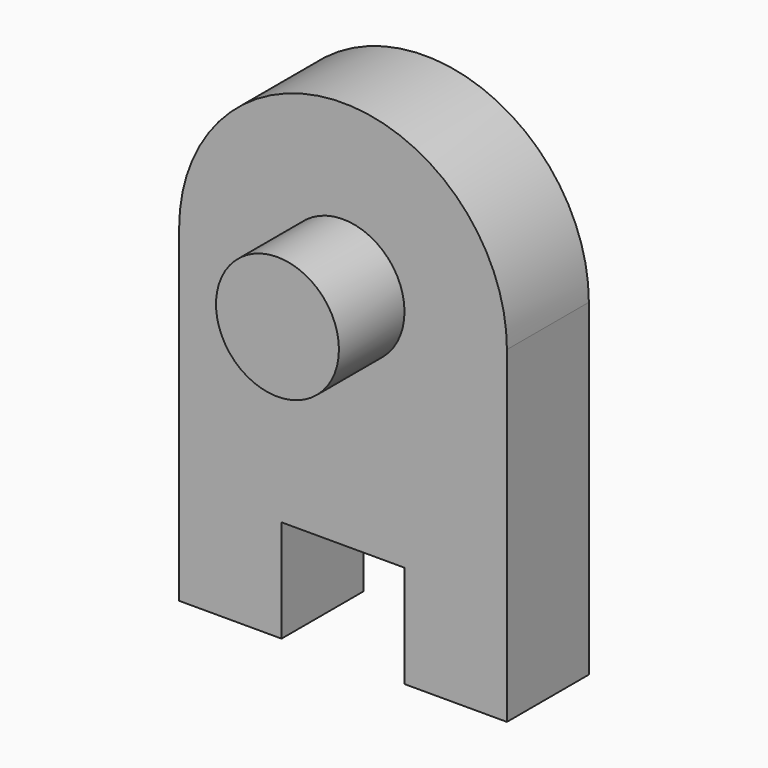
from build123d import *

# Parameters (mm, degrees)
F1_DEPTH = 25
F2_R     = 15
F3_DEPTH = 20


with BuildPart() as f1:
    # F0 (on Front) → F1 (new body)
    with BuildSketch(Plane.XZ):
        with BuildLine():
            Line((15, -40), (40, -40))
            Line((40, -40), (40, 40))
            ThreePointArc((40, 40), (0, 80), (-40, 40))
            Line((-40, 40), (-40, -40))
            Line((-40, -40), (-15, -40))
            Line((-15, -40), (-15, -15))
            Line((-15, -15), (15, -15))
            Line((15, -15), (15, -40))
        make_face()
    extrude(amount=F1_DEPTH)

    # F2 (on face) → F3 (join)
    with BuildSketch(Plane.XZ.offset(25)):
        with Locations((0, 40)):
            Circle(F2_R)
    extrude(amount=F3_DEPTH)


solid = f1.part
